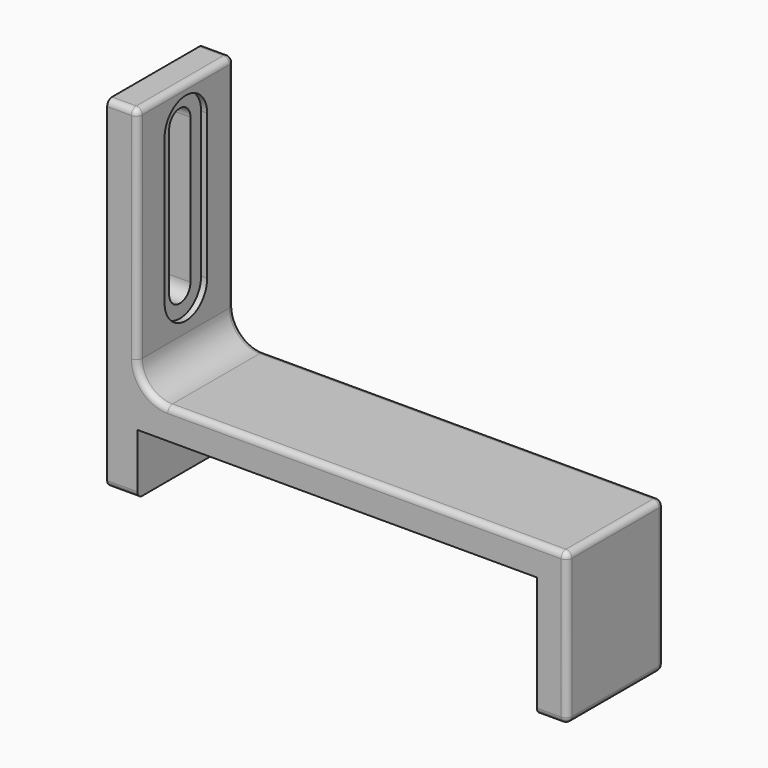
from build123d import *

# Parameters (mm, degrees)
PAD001_DEPTH    = 10
POCKET002_DEPTH = 76.001
POCKET003_DEPTH = 72.001
FILLET001_R     = 1


with BuildPart() as part:
    # Sketch003 → Pad001 (new body, symmetric)
    with BuildSketch(Plane.XZ):
        with BuildLine():
            Line((5, -18.2), (71, -18.2))
            Line((71, -18.2), (71, -38.2))
            Line((71, -38.2), (76, -38.2))
            Line((76, -38.2), (76, -13.2))
            Line((76, -13.2), (10, -13.2))
            ThreePointArc((5, -8.2), (6.464466, -11.735534), (10, -13.2))
            Line((5, -8.2), (5, 28.2))
            Line((5, 28.2), (0, 28.2))
            Line((0, 28.2), (0, -28.2))
            Line((0, -28.2), (5, -28.2))
            Line((5, -28.2), (5, -18.2))
        make_face()
    extrude(amount=PAD001_DEPTH, both=True)

    # Sketch004 → Pocket002 (cut, through all)
    with BuildSketch(Plane.YZ):
        with BuildLine():
            ThreePointArc((2.2, 22), (0, 24.2), (-2.2, 22))
            Line((-2.2, 22), (-2.2, -2))
            ThreePointArc((-2.2, -2), (0, -4.2), (2.2, -2))
            Line((2.2, 22), (2.2, -2))
        make_face()
    extrude(amount=POCKET002_DEPTH, mode=Mode.SUBTRACT)

    # Sketch005 → Pocket003 (cut, through all)
    with BuildSketch(Plane.YZ.offset(4)):
        with BuildLine():
            ThreePointArc((4.4, 22), (0, 26.4), (-4.4, 22))
            Line((-4.4, -2), (-4.4, 22))
            ThreePointArc((-4.4, -2), (0, -6.4), (4.4, -2))
            Line((4.4, 22), (4.4, -2))
        make_face()
    extrude(amount=POCKET003_DEPTH, mode=Mode.SUBTRACT)

    # Fillet001
    fillet001_edges = [part.edges().sort_by_distance(p)[0] for p in [
        (5, 0, 28.2),
        (2.5, -10, 28.2),
        (2.5, 10, 28.2),
        (2.5, -10, -28.2),
        (2.5, 10, -28.2),
        (73.5, -10, -38.2),
        (73.5, 10, -38.2),
        (76, 0, -38.2),
        (76, 0, -13.2),
        (76, 10, -25.7),
        (76, -10, -25.7),
        (10, 0, -13.2),
        (43, 10, -13.2),
        (43, -10, -13.2),
    ]]
    fillet(fillet001_edges, radius=FILLET001_R)


with BuildPart() as part_1:
    # Body001 placement: moved
    add(part.part.moved(Location((0, 15, 0))))


solid = part_1.part
